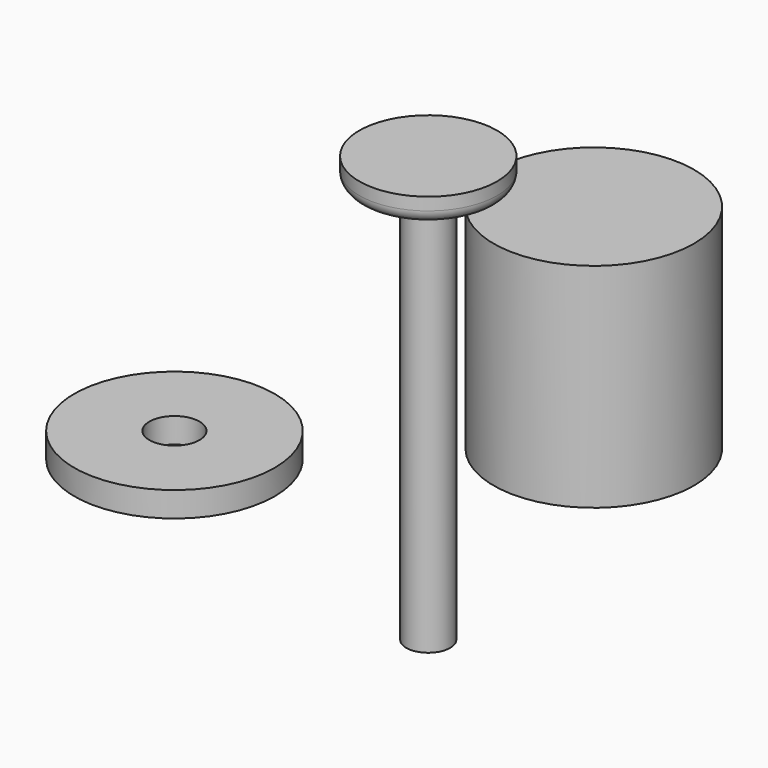
from build123d import *

# Parameters (mm, degrees)
F0_R     = 8
F0_R_2   = 2
F1_DEPTH = 2
F2_R     = 8
F2_R_2   = 6
F3_DEPTH = 15
F4_R     = 8
F5_DEPTH = 2
F6_R     = 1.75
F7_DEPTH = 32
F8_R     = 5.5
F9_DEPTH = 2
F10_R    = 1


with BuildPart() as f1:
    # F0 (on Top) → F1 (new body)
    with BuildSketch(Plane.XY):
        with Locations((-41.524723, 19.668885)):
            Circle(F0_R)
        with Locations((-41.524723, 19.668885)):
            Circle(F0_R_2, mode=Mode.SUBTRACT)
    extrude(amount=F1_DEPTH)


with BuildPart() as f3:
    # F2 (on Top) → F3 (new body)
    with BuildSketch(Plane.XY):
        with Locations((-22.018656, 37.125103)):
            Circle(F2_R)
        with Locations((-22.018656, 37.125103)):
            Circle(F2_R_2, mode=Mode.SUBTRACT)
    extrude(amount=F3_DEPTH)

    # F4 (on face) → F5 (join)
    with BuildSketch(Plane.XY.offset(15)):
        with Locations((-22.018656, 37.125103)):
            Circle(F4_R)
    extrude(amount=F5_DEPTH)


with BuildPart() as f7:
    # F6 (on Top) → F7 (new body)
    with BuildSketch(Plane.XY):
        with Locations((-13.949047, 10.522005)):
            Circle(F6_R)
    extrude(amount=F7_DEPTH)

    # F8 (on face) → F9 (join)
    with BuildSketch(Plane.XY.offset(32)):
        with Locations((-13.949047, 10.522005)):
            Circle(F8_R)
    extrude(amount=F9_DEPTH)

    # F10
    f10_edges = [f7.edges().sort_by_distance(p)[0] for p in [
        (-19.449047, 10.522005, 32),
    ]]
    fillet(f10_edges, radius=F10_R)


solid = Compound([f1.part, f3.part, f7.part])
